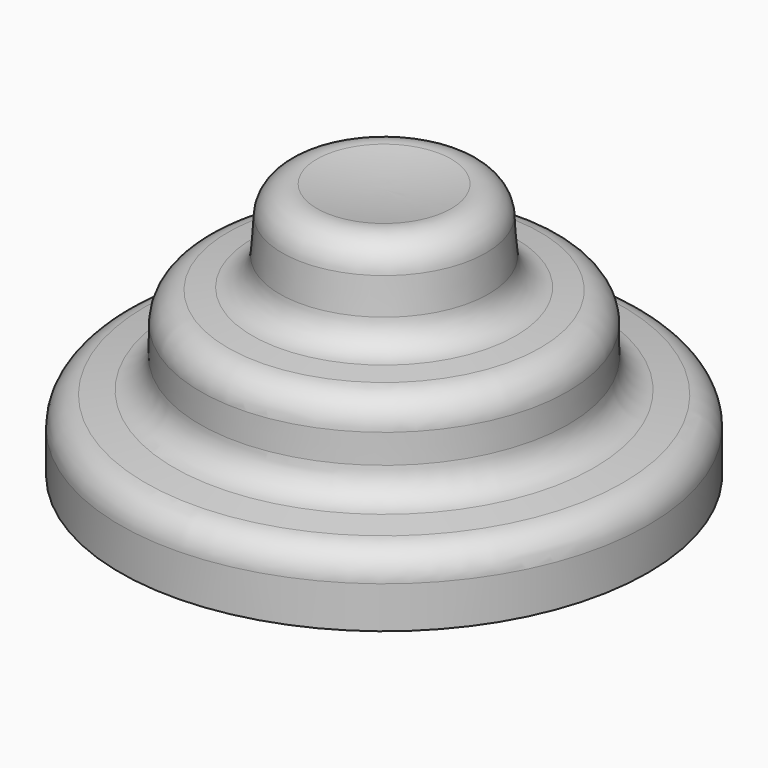
from build123d import *

# Parameters (mm, degrees)
F2_T = -2.54


with BuildPart() as f1:
    # F0 (on Front) → F1 (revolve)
    with BuildSketch(Plane.XZ):
        with BuildLine():
            Line((0, 69.342), (0, 66.802003))
            Line((0, 66.802003), (0, 0))
            Line((0, 0), (73.025, -0.230213))
            Line((73.025, -0.230213), (73.025, 11.326787))
            ThreePointArc((73.025, 11.326787), (71.03433, 16.655724), (66.037409, 19.374386))
            Line((66.037409, 19.374386), (58.125086, 20.495626))
            ThreePointArc((58.125086, 20.495626), (53.013569, 23.251747), (50.920083, 28.668492))
            Line((50.920083, 28.668492), (50.8, 36.64204))
            ThreePointArc((50.8, 36.64204), (48.590821, 42.187322), (43.251638, 44.856357))
            Line((43.251638, 44.856357), (36.419474, 45.538454))
            ThreePointArc((36.419474, 45.538454), (31.24352, 48.034835), (28.891729, 53.278069))
            Line((28.891729, 53.278069), (28.189232, 63.051676))
            ThreePointArc((28.189232, 63.051676), (25.063295, 68.997355), (18.575547, 70.738532))
            ThreePointArc((18.575547, 70.738532), (9.313985, 69.691625), (0, 69.342))
        make_face()
    revolve(axis=Axis((0, 0, 33.14573), (0, 0, 1)))

    # F2
    f2_openings = [f1.faces().sort_by_distance(p)[0] for p in [
        (-36.5125, 0, -0.115106),
    ]]
    offset(amount=F2_T, openings=f2_openings)


solid = f1.part
